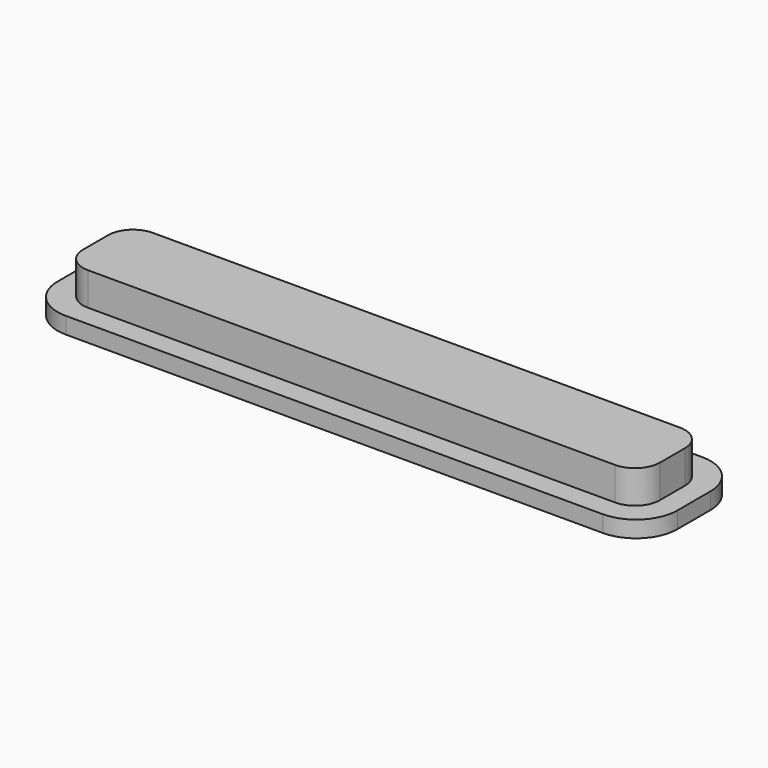
from build123d import *

# Parameters (mm, degrees)
F0_W     = 75
F0_H     = 15
F1_DEPTH = 2
F2_W     = 69.8
F2_H     = 9.8
F3_DEPTH = 4
F4_R     = 5
F5_R     = 3
F6_R     = 5
F7_R     = 5
F8_R     = 3
F9_R     = 3
F10_R    = 5
F11_R    = 3


with BuildPart() as f1:
    # F0 (on Top) → F1 (new body)
    with BuildSketch(Plane.XY):
        with Locations((34.641778, -0.255361)):
            Rectangle(F0_W, F0_H)
    extrude(amount=F1_DEPTH)

    # F2 (on face) → F3 (join)
    with BuildSketch(Plane.XY.offset(2)):
        with Locations((34.641778, -0.255361)):
            Rectangle(F2_W, F2_H)
    extrude(amount=F3_DEPTH)

    # F4
    f4_edges = [f1.edges().sort_by_distance(p)[0] for p in [
        (-2.858222, -7.755361, 1),
    ]]
    fillet(f4_edges, radius=F4_R)

    # F5
    f5_edges = [f1.edges().sort_by_distance(p)[0] for p in [
        (-0.258222, -5.155361, 4),
    ]]
    fillet(f5_edges, radius=F5_R)

    # F6
    f6_edges = [f1.edges().sort_by_distance(p)[0] for p in [
        (72.141778, 7.244639, 1),
    ]]
    fillet(f6_edges, radius=F6_R)

    # F7
    f7_edges = [f1.edges().sort_by_distance(p)[0] for p in [
        (72.141778, -7.755361, 1),
    ]]
    fillet(f7_edges, radius=F7_R)

    # F8
    f8_edges = [f1.edges().sort_by_distance(p)[0] for p in [
        (69.541778, 4.644639, 4),
    ]]
    fillet(f8_edges, radius=F8_R)

    # F9
    f9_edges = [f1.edges().sort_by_distance(p)[0] for p in [
        (69.541778, -5.155361, 4),
    ]]
    fillet(f9_edges, radius=F9_R)

    # F10
    f10_edges = [f1.edges().sort_by_distance(p)[0] for p in [
        (-2.858222, 7.244639, 1),
    ]]
    fillet(f10_edges, radius=F10_R)

    # F11
    f11_edges = [f1.edges().sort_by_distance(p)[0] for p in [
        (-0.258222, 4.644639, 4),
    ]]
    fillet(f11_edges, radius=F11_R)


solid = f1.part
